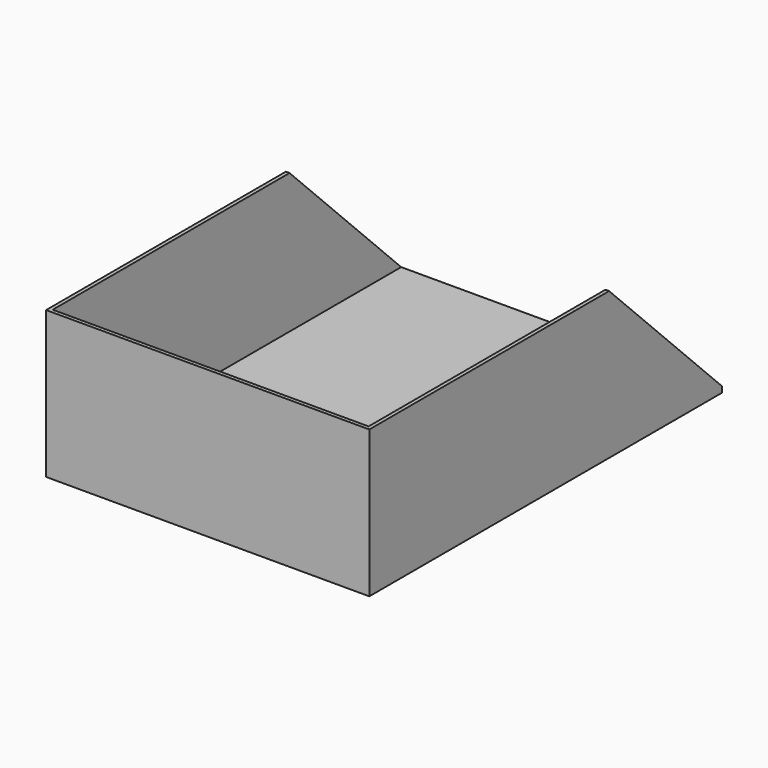
from build123d import *

# Parameters (mm, degrees)
F0_W     = 220
F0_H     = 300
F1_DEPTH = 100
F2_W     = 215
F2_H     = 295
F3_DEPTH = 95
F4_W     = 215
F4_H     = 95
F5_DEPTH = 5
F6_SIZE  = 96


with BuildPart() as f1:
    # F0 (on Top) → F1 (new body)
    with BuildSketch(Plane.XY):
        Rectangle(F0_W, F0_H)
    extrude(amount=F1_DEPTH)

    # F2 (on face) → F3 (cut)
    with BuildSketch(Plane.XY.offset(100)):
        Rectangle(F2_W, F2_H)
    extrude(amount=-F3_DEPTH, mode=Mode.SUBTRACT)

    # F4 (on face) → F5 (cut)
    with BuildSketch(Plane.XZ.offset(-147.5)):
        with Locations((0, 52.5)):
            Rectangle(F4_W, F4_H)
    extrude(amount=-F5_DEPTH, mode=Mode.SUBTRACT)

    # F6
    f6_edges = [f1.edges().sort_by_distance(p)[0] for p in [
        (-108.75, 150, 100),
    ]]
    chamfer(f6_edges, length=F6_SIZE)


solid = f1.part
